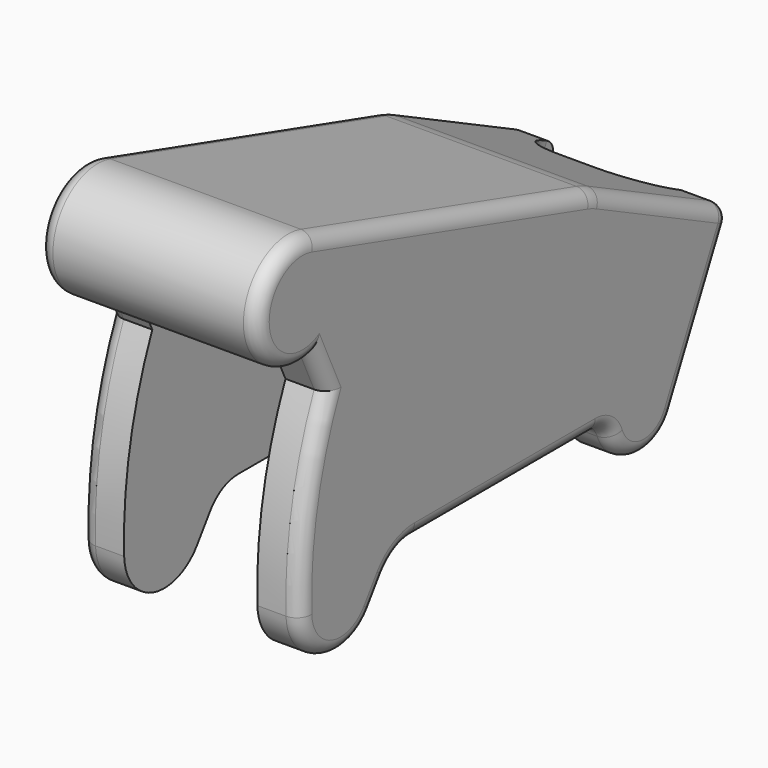
from build123d import *

# Parameters (mm, degrees)
PAD004_DEPTH    = 7.65
POCKET003_DEPTH = 4.65
POCKET004_DEPTH = 2
FILLET007_R     = 1
FILLET008_R     = 1


with BuildPart() as part:
    # Sketch009 → Pad004 (new body, symmetric)
    with BuildSketch(Plane.YZ):
        with BuildLine():
            ThreePointArc((-2.8284271247, -1), (-0.1735950846, -2.9949732464), (2.6939497909, -1.3200888318))
            Line((2.6939497909, -1.3200888318), (7.8, 9.1))
            Line((7.8, 9.1), (-3.7, 14.7352281014))
            ThreePointArc((-3.7, 14.7352281014), (-4.158961759, 14.9368094594), (-4.6331484619, 15.0993760945))
            Line((-4.6331484619, 15.0993760945), (-28.6904310189, 22.2388309237))
            ThreePointArc((-28.6904310189, 22.2388309237), (-33.6993372116, 18.5718979166), (-28.8290152057, 14.7228067922))
            Line((-27.5290152057, 11.9228067922), (-28.8290152057, 14.7228067922))
            ThreePointArc((-27.5290152057, 11.9228067922), (-29.4749197629, 5.5883007232), (-29.9826934773, -1.0188679245))
            ThreePointArc((-29.9826934773, -1.0188679245), (-27.4803397166, -4.255402597), (-23.6176804166, -2.9075175272))
            Line((-23.6176804166, -2.9075175272), (-22.4775697078, -1.2792706909))
            ThreePointArc((-20.0201135749, 0), (-21.4053594146, -0.3389675005), (-22.4775697078, -1.2792706909))
            Line((-4.2426406871, 0), (-20.0201135749, 0))
            ThreePointArc((-2.8284271247, -1), (-3.3766152833, -0.2752551286), (-4.2426406871, 0))
        make_face()
    extrude(amount=PAD004_DEPTH, both=True)

    # Sketch010 → Pocket003 (cut, symmetric)
    with BuildSketch(Plane.YZ):
        with BuildLine():
            Line((6.9199407788, 7.3040334727), (-5.8060355253, 13.5400142802))
            ThreePointArc((-5.8060355253, 13.5400142802), (-11.1364622888, 12.5033421393), (-11.5881769744, 7.0918642957))
            Line((-11.5881769744, 7.0918642957), (-7.7326639328, 1.0024084327))
            Line((-9, 0.2), (-7.7326639328, 1.0024084327))
            Line((-9, 0.2), (-20, 17.5735670895))
            Line((-24.6418524264, 18.9511248267), (-20, 17.5735670895))
            ThreePointArc((-24.6418524264, 18.9511248267), (-25.4821110434, 18.8237971917), (-25.9209782539, 18.0960318164))
            ThreePointArc((-28.8290152057, 14.7228067922), (-26.8461376765, 15.9534931036), (-25.9209782539, 18.0960318164))
            Line((-28.8290152057, 14.7228067922), (-34.6400816793, 13.2289840317))
            Line((-34.6400816793, 13.2289840317), (-31.0800592212, -4.6959665273))
            Line((-31.0800592212, -4.6959665273), (6.9199407788, -4.6959665273))
            Line((6.9199407788, -4.6959665273), (6.9199407788, 7.3040334727))
        make_face()
    extrude(amount=POCKET003_DEPTH, both=True, mode=Mode.SUBTRACT)

    # Sketch011 (on Face6 of Pocket003) → Pocket004 (cut)
    with BuildSketch(Plane(origin=(0, 5.1060502091, 10.4200888318), x_dir=(0, -0.8979832636, 0.4400296106), z_dir=(0, 0.4400296106, 0.8979832636))):
        with BuildLine():
            Line((-3, 4.65), (-2, 4.65))
            ThreePointArc((1.5, 1.15), (0.4748737342, 3.6248737342), (-2, 4.65))
            Line((1.5, 1.15), (1.5, -1.15))
            ThreePointArc((-2, -4.65), (0.4748737342, -3.6248737342), (1.5, -1.15))
            Line((-2, -4.65), (-3, -4.65))
            Line((-3, -4.65), (-3, 4.65))
        make_face()
    extrude(amount=-POCKET004_DEPTH, mode=Mode.SUBTRACT)

    # Fillet007
    fillet007_edges = [part.edges().sort_by_distance(p)[0] for p in [
        (-6.15, 7.8, 9.1),
        (6.15, 7.8, 9.1),
    ]]
    fillet(fillet007_edges, radius=FILLET007_R)

    # Fillet008
    fillet008_edges = [part.edges().sort_by_distance(p)[0] for p in [
        (7.65, -16.66179, 18.669104),
        (-7.65, -16.66179, 18.669104),
        (-7.65, -28.179015, 13.322807),
        (7.65, -28.179015, 13.322807),
    ]]
    fillet(fillet008_edges, radius=FILLET008_R)


with BuildPart() as part_1:
    # Body003 placement: moved
    add(part.part.moved(Location((0, 15.2, 5.2))))


solid = part_1.part
